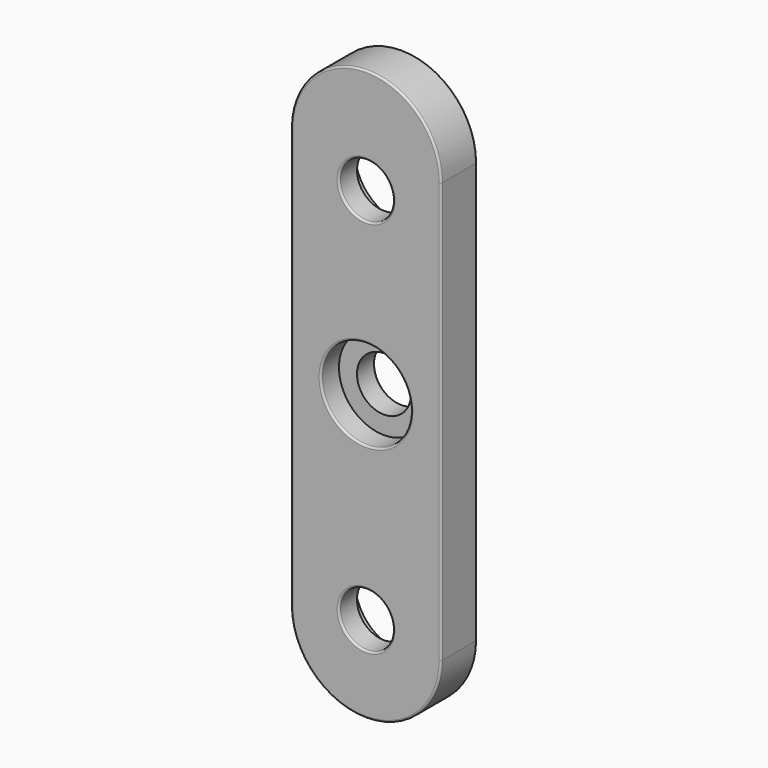
from build123d import *

# Parameters (mm, degrees)
F0_R     = 3.60045
F1_DEPTH = 5.99948
F2_R     = 5.99948
F3_DEPTH = 2.99974
F4_R     = 0.254
F5_R     = 6.25348
F6_DEPTH = 2.99974


with BuildPart() as f1:
    # F0 (on Front) → F1 (new body)
    with BuildSketch(Plane.XZ):
        with BuildLine():
            ThreePointArc((-9.99998, -27.99969), (0, -37.99967), (9.99998, -27.99969))
            Line((9.99998, -27.99969), (9.99998, 27.99969))
            ThreePointArc((9.99998, 27.99969), (0, 37.99967), (-9.99998, 27.99969))
            Line((-9.99998, 27.99969), (-9.99998, -27.99969))
        make_face()
        with Locations((0, -26.454154)):
            Circle(F0_R, mode=Mode.SUBTRACT)
        Circle(F0_R, mode=Mode.SUBTRACT)
        with Locations((0, 23.910544)):
            Circle(F0_R, mode=Mode.SUBTRACT)
    extrude(amount=-F1_DEPTH)

    # F2 (on Front) → F3 (cut)
    with BuildSketch(Plane.XZ):
        Circle(F2_R)
    extrude(amount=-F3_DEPTH, mode=Mode.SUBTRACT)

    # F4
    f4_edges = [f1.edges().sort_by_distance(p)[0] for p in [
        (0, 0, -37.99967),
        (-9.99998, 0, 0),
        (9.99998, 0, 0),
        (0, 0, 37.99967),
        (-3.60045, 0, -26.454154),
        (-5.99948, 0, 0),
        (-3.60045, 0, 23.910544),
        (0, 5.99948, -37.99967),
        (9.99998, 5.99948, 0),
        (0, 5.99948, 37.99967),
        (-9.99998, 5.99948, 0),
        (-3.60045, 5.99948, -26.454154),
        (-3.60045, 5.99948, 0),
        (-3.60045, 5.99948, 23.910544),
    ]]
    fillet(f4_edges, radius=F4_R)

    # F5 (on face) → F6 (cut)
    with BuildSketch(Plane(origin=(0, 5.99948, 0), x_dir=(-1, 0, 0), z_dir=(0, 1, 0))):
        with Locations((0, 23.910544)):
            Circle(F5_R)
        with Locations((0, -26.454154)):
            Circle(F5_R)
    extrude(amount=-F6_DEPTH, mode=Mode.SUBTRACT)


solid = f1.part
